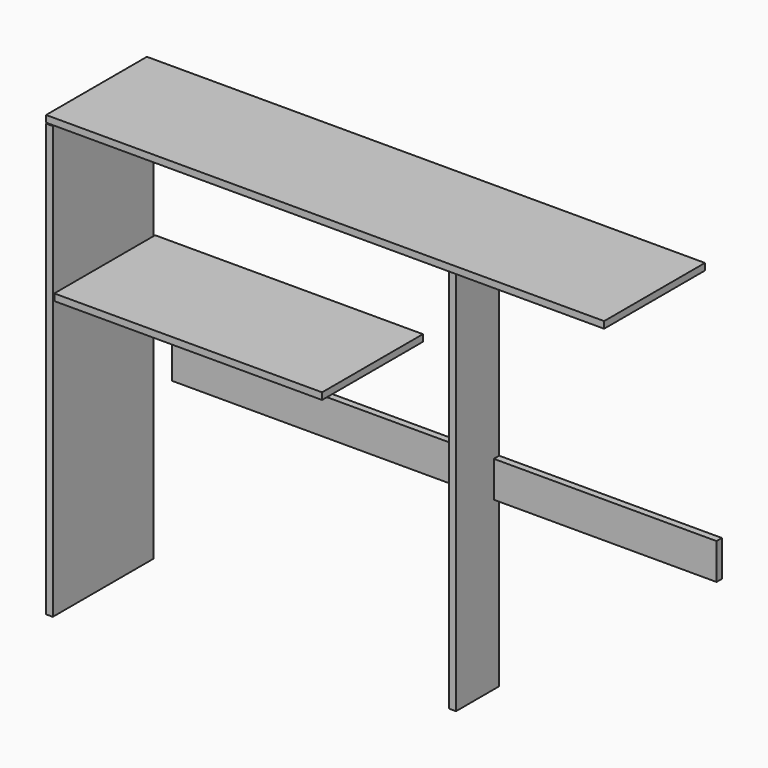
from build123d import *

# Parameters (mm, degrees)
F0_W     = 19.05
F0_H     = 1219.2
F1_DEPTH = 355.6
F2_W     = 1574.8
F2_H     = 19.05
F3_DEPTH = 355.6
F4_W     = 755.65
F4_H     = 19.05
F5_DEPTH = 355.6
F6_W     = 1536.7
F6_H     = 101.6
F7_DEPTH = 19.05
F8_W     = 19.05
F8_H     = 1219.2
F9_DEPTH = 152.4


with BuildPart() as f1:
    # F0 (on Front) → F1 (new body)
    with BuildSketch(Plane.XZ):
        with Locations((9.525, 609.6)):
            Rectangle(F0_W, F0_H)
    extrude(amount=F1_DEPTH)


with BuildPart() as f3:
    # F2 (on Front) → F3 (new body)
    with BuildSketch(Plane.XZ):
        with Locations((787.4, 1231.123268)):
            Rectangle(F2_W, F2_H)
    extrude(amount=F3_DEPTH)


with BuildPart() as f5:
    # F4 (on Front) → F5 (new body)
    with BuildSketch(Plane.XZ):
        with Locations((401.039836, 795.332371)):
            Rectangle(F4_W, F4_H)
    extrude(amount=F5_DEPTH)


with BuildPart() as f7:
    # F6 (on Front) → F7 (new body)
    with BuildSketch(Plane.XZ):
        with Locations((854.394039, 522.106338)):
            Rectangle(F6_W, F6_H)
    extrude(amount=F7_DEPTH)


with BuildPart() as f9:
    # F8 (on Front) → F9 (new body)
    with BuildSketch(Plane.XZ):
        with Locations((984.664558, 609.6)):
            Rectangle(F8_W, F8_H)
    extrude(amount=F9_DEPTH)


solid = Compound([f1.part, f3.part, f5.part, f7.part, f9.part])
